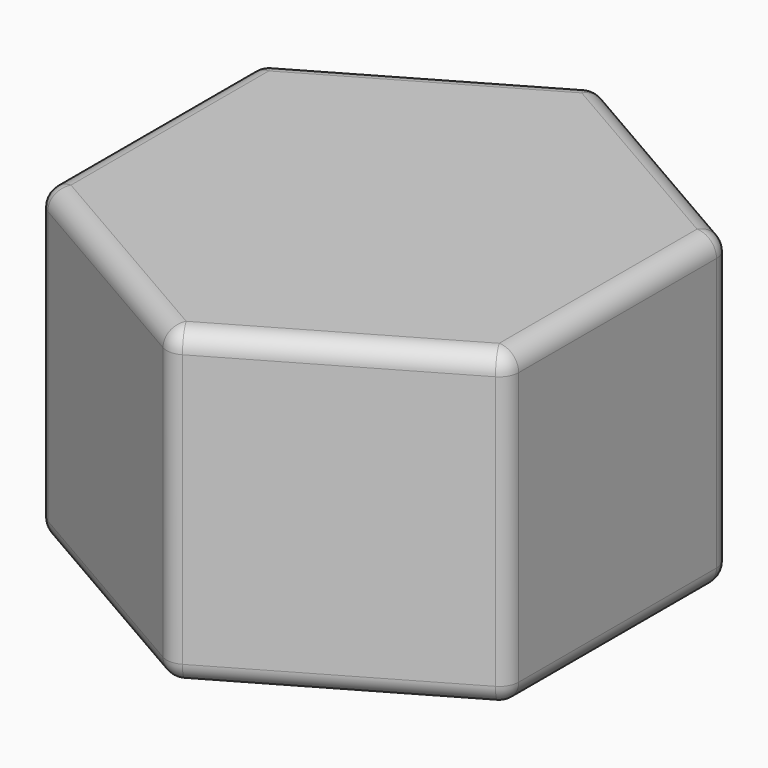
from build123d import *

# Parameters (mm, degrees)
F0_R     = 3.175
F1_DEPTH = 12.7
F2_DEPTH = 6.35
F3_R     = 0.79375


with BuildPart() as f1:
    # F0 (on Top) → F1 (new body)
    with BuildSketch(Plane.XY):
        Polygon((9.525, -5.499261314), (9.525, 5.499261314), (0, 10.9985226281), (-9.525, 5.499261314), (-9.525, -5.499261314), (0, -10.9985226281), align=None)
        Circle(F0_R, mode=Mode.SUBTRACT)
        Circle(F0_R)
    extrude(amount=F1_DEPTH)

    # F0 (on Top) → F2 (cut)
    with BuildSketch(Plane.XY):
        Circle(F0_R)
    extrude(amount=F2_DEPTH, mode=Mode.SUBTRACT)

    # F3
    f3_edges = [f1.edges().sort_by_distance(p)[0] for p in [
        (0, 10.998523, 6.35),
        (-9.525, 5.499261, 6.35),
        (-4.7625, 8.248892, 0),
        (-4.7625, 8.248892, 12.7),
        (-9.525, -5.499261, 6.35),
        (-9.525, 0, 0),
        (-9.525, 0, 12.7),
        (0, -10.998523, 6.35),
        (-4.7625, -8.248892, 0),
        (-4.7625, -8.248892, 12.7),
        (9.525, -5.499261, 6.35),
        (4.7625, -8.248892, 0),
        (4.7625, -8.248892, 12.7),
        (9.525, 0, 12.7),
        (4.7625, 8.248892, 12.7),
        (9.525, 5.499261, 6.35),
        (9.525, 0, 0),
        (4.7625, 8.248892, 0),
        (3.175, 0, 3.175),
        (-3.175, 0, 0),
        (-3.175, 0, 6.35),
    ]]
    fillet(f3_edges, radius=F3_R)


solid = f1.part
